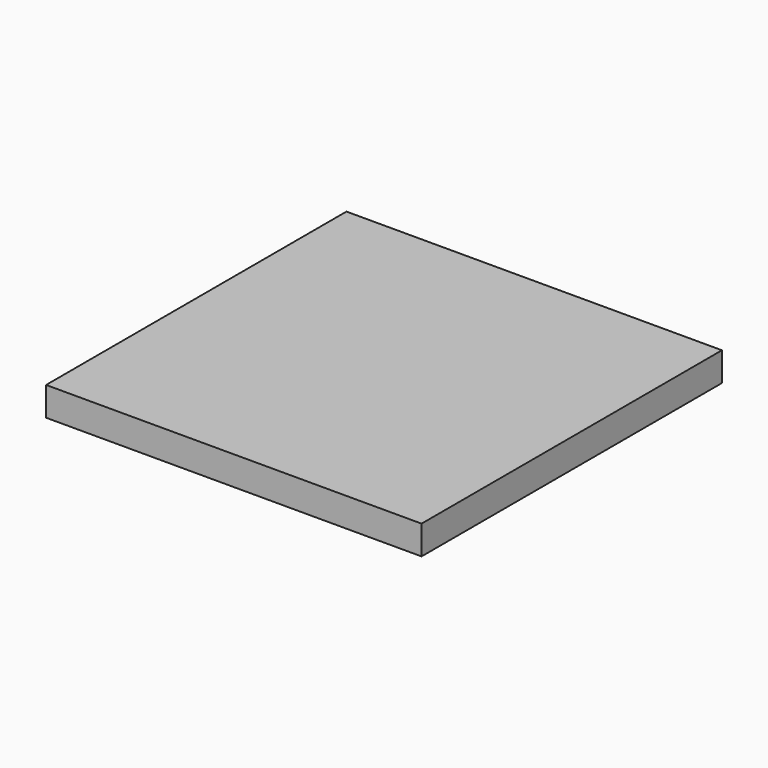
from build123d import *

# Parameters (mm, degrees)
F0_W     = 25.4
F0_H     = 50.8
F0_W_2   = 50.8
F0_H_2   = 25.4
F0_W_3   = 508
F0_H_3   = 508
F1_DEPTH = 50.8
F2_DEPTH = 25.4
F3_DEPTH = 25.4
F4_DEPTH = 25.4
F5_DEPTH = 25.4


with BuildPart() as f1:
    # F0 (on Top) → F1 (new body)
    with BuildSketch(Plane.XY):
        with Locations((307.4446349591, -113.3660624364)):
            Rectangle(F0_W, F0_H)
        with Locations((-289.4553650409, -151.4660624364)):
            Rectangle(F0_W_2, F0_H_2)
        with Locations((307.4446349591, 483.5339375636)):
            Rectangle(F0_W, F0_H_2)
        with Locations((-289.4553650409, -113.3660624364)):
            Rectangle(F0_W_2, F0_H)
        with Locations((307.4446349591, -151.4660624364)):
            Rectangle(F0_W, F0_H_2)
        with Locations((-327.5553650409, -151.4660624364)):
            Rectangle(F0_W, F0_H_2)
        with Locations((269.3446349591, -113.3660624364)):
            Rectangle(F0_W_2, F0_H)
        with Locations((-10.0553650409, -151.4660624364)):
            Rectangle(F0_W_3, F0_H_2)
        with Locations((269.3446349591, -151.4660624364)):
            Rectangle(F0_W_2, F0_H_2)
        with Locations((-10.0553650409, 483.5339375636)):
            Rectangle(F0_W_3, F0_H_2)
        with Locations((269.3446349591, 483.5339375636)):
            Rectangle(F0_W_2, F0_H_2)
        with Locations((-327.5553650409, -113.3660624364)):
            Rectangle(F0_W, F0_H)
        with Locations((-327.5553650409, 166.0339375636)):
            Rectangle(F0_W, F0_H_3)
        with Locations((269.3446349591, 166.0339375636)):
            Rectangle(F0_W_2, F0_H_3)
        with Locations((307.4446349591, 166.0339375636)):
            Rectangle(F0_W, F0_H_3)
        with Locations((307.4446349591, 445.4339375636)):
            Rectangle(F0_W, F0_H)
        with Locations((269.3446349591, 445.4339375636)):
            Rectangle(F0_W_2, F0_H)
        with Locations((-10.0553650409, 166.0339375636)):
            Rectangle(F0_W_3, F0_H_3)
        with Locations((-10.0553650409, -113.3660624364)):
            Rectangle(F0_W_3, F0_H)
        with Locations((-289.4553650409, 166.0339375636)):
            Rectangle(F0_W_2, F0_H_3)
        with Locations((-10.0553650409, 445.4339375636)):
            Rectangle(F0_W_3, F0_H)
        with Locations((-289.4553650409, 445.4339375636)):
            Rectangle(F0_W_2, F0_H)
        with Locations((-327.5553650409, 445.4339375636)):
            Rectangle(F0_W, F0_H)
        with Locations((-327.5553650409, 483.5339375636)):
            Rectangle(F0_W, F0_H_2)
        with Locations((-289.4553650409, 483.5339375636)):
            Rectangle(F0_W_2, F0_H_2)
    extrude(amount=F1_DEPTH)

    # F0 (on Top) → F2 (cut)
    with BuildSketch(Plane.XY):
        with Locations((269.3446349591, -113.3660624364)):
            Rectangle(F0_W_2, F0_H)
    extrude(amount=F2_DEPTH, mode=Mode.SUBTRACT)

    # F0 (on Top) → F3 (cut)
    with BuildSketch(Plane.XY):
        with Locations((269.3446349591, 445.4339375636)):
            Rectangle(F0_W_2, F0_H)
    extrude(amount=F3_DEPTH, mode=Mode.SUBTRACT)

    # F0 (on Top) → F4 (cut)
    with BuildSketch(Plane.XY):
        with Locations((-289.4553650409, 445.4339375636)):
            Rectangle(F0_W_2, F0_H)
    extrude(amount=F4_DEPTH, mode=Mode.SUBTRACT)

    # F0 (on Top) → F5 (cut)
    with BuildSketch(Plane.XY):
        with Locations((-289.4553650409, -113.3660624364)):
            Rectangle(F0_W_2, F0_H)
    extrude(amount=F5_DEPTH, mode=Mode.SUBTRACT)


solid = f1.part
